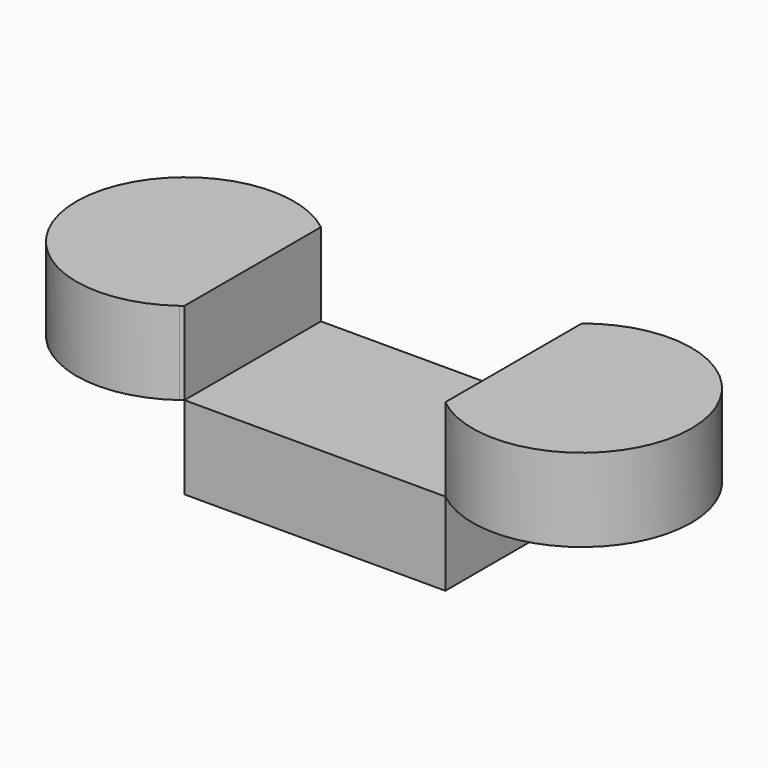
from build123d import *

# Parameters (mm, degrees)
F0_W     = 79.8208117485
F0_H     = 52.1990358829
F1_DEPTH = 25.4
F3_DEPTH = 25.4
F4_DEPTH = 25.4


with BuildPart() as f1:
    # F0 (on Top) → F1 (new body)
    with BuildSketch(Plane.XY):
        Rectangle(F0_W, F0_H)
    extrude(amount=F1_DEPTH)

    # F2 (on face) → F3 (join)
    with BuildSketch(Plane.XY.offset(25.4)):
        with BuildLine():
            Line((-39.9104058743, -26.0995179415), (-39.9104058743, 26.0995179415))
            ThreePointArc((-39.9104058743, 26.0995179415), (-93.8421517759, 0.5807712398), (-40.8336892724, -26.8043077675))
            ThreePointArc((-40.8336892724, -26.8043077675), (-40.36897279, -26.4559408587), (-39.9104058743, -26.0995179415))
        make_face()
        with BuildLine():
            ThreePointArc((39.9104058743, -26.0995179415), (94.3291487358, 0), (39.9104058743, 26.0995179415))
            Line((39.9104058743, 26.0995179415), (39.9104058743, -26.0995179415))
        make_face()
    extrude(amount=F3_DEPTH)

    # F2 (on face) → F4 (join)
    with BuildSketch(Plane.XY.offset(25.4)):
        with BuildLine():
            Line((-39.9104058743, -26.0995179415), (-39.9104058743, 26.0995179415))
            ThreePointArc((-39.9104058743, 26.0995179415), (-93.8421517759, 0.5807712398), (-40.8336892724, -26.8043077675))
            ThreePointArc((-40.8336892724, -26.8043077675), (-40.36897279, -26.4559408587), (-39.9104058743, -26.0995179415))
        make_face()
        with BuildLine():
            ThreePointArc((39.9104058743, -26.0995179415), (94.3291487358, 0), (39.9104058743, 26.0995179415))
            Line((39.9104058743, 26.0995179415), (39.9104058743, -26.0995179415))
        make_face()
    extrude(amount=F4_DEPTH)


solid = f1.part
